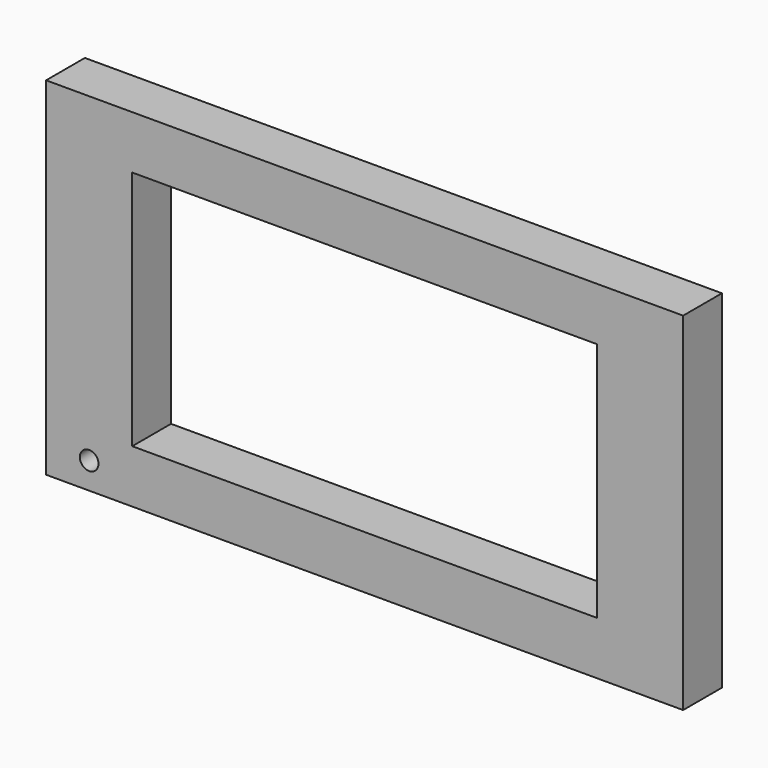
from build123d import *

# Parameters (mm, degrees)
SKETCH_W     = 34.16
SKETCH_H     = 18.62
PAD_DEPTH    = 2.6
SKETCH002_R  = 0.5
SKETCH002_W  = 24.92
SKETCH002_H  = 12.92
POCKET_DEPTH = 2.6


with BuildPart() as part:
    # Sketch → Pad (new body)
    with BuildSketch(Plane.XZ):
        with Locations((17.08, 9.31)):
            Rectangle(SKETCH_W, SKETCH_H)
    extrude(amount=PAD_DEPTH)

    # Sketch002 (on Face6 of Pad) → Pocket (cut)
    with BuildSketch(Plane.XZ.offset(2.6)):
        with Locations((2.31, 1.425)):
            Circle(SKETCH002_R)
        with Locations((17.08, 9.31)):
            Rectangle(SKETCH002_W, SKETCH002_H)
    extrude(amount=-POCKET_DEPTH, mode=Mode.SUBTRACT)


solid = part.part
